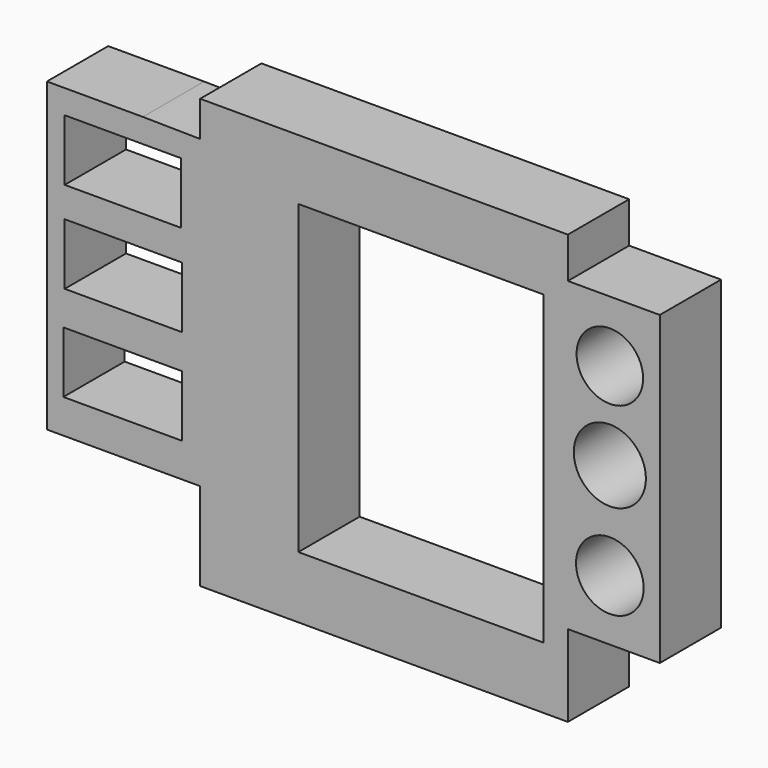
from build123d import *

# Parameters (mm, degrees)
F0_W     = 38.786523
F0_H     = 20
F0_R     = 11.038045
F0_W_2   = 38.340703
F0_W_3   = 37.894883
F0_W_4   = 80
F0_H_2   = 100
F0_R_2   = 11.770059
F0_R_3   = 10.856476
F1_DEPTH = 25


with BuildPart() as f1:
    # F0 (on Front) → F1 (new body)
    with BuildSketch(Plane.XZ):
        Polygon((-80.319024, 650.442216), (-80.319024, 621.733804), (39.680976, 621.733804), (39.680976, 648.405431), (69.680976, 648.405431), (69.680976, 748.405431), (39.680976, 748.405431), (39.680976, 761.733804), (-80.319024, 761.733804), (-80.319024, 750.181132), (-99.020609, 750.442216), (-130.319024, 750.442216), (-130.319024, 650.442216), align=None)
        with Locations((-105.561446, 671.547422)):
            Rectangle(F0_W, F0_H, mode=Mode.SUBTRACT)
        with Locations((53.37413, 668.231626)):
            Circle(F0_R, mode=Mode.SUBTRACT)
        with Locations((-105.338537, 702.754984)):
            Rectangle(F0_W_2, F0_H, mode=Mode.SUBTRACT)
        with Locations((-105.561446, 732.625077)):
            Rectangle(F0_W_3, F0_H, mode=Mode.SUBTRACT)
        with Locations((-8.273306, 691.931295)):
            Rectangle(F0_W_4, F0_H_2, mode=Mode.SUBTRACT)
        with Locations((53.37413, 699.88817)):
            Circle(F0_R_2, mode=Mode.SUBTRACT)
        with Locations((53.37413, 728.417905)):
            Circle(F0_R_3, mode=Mode.SUBTRACT)
    extrude(amount=F1_DEPTH)


solid = f1.part
